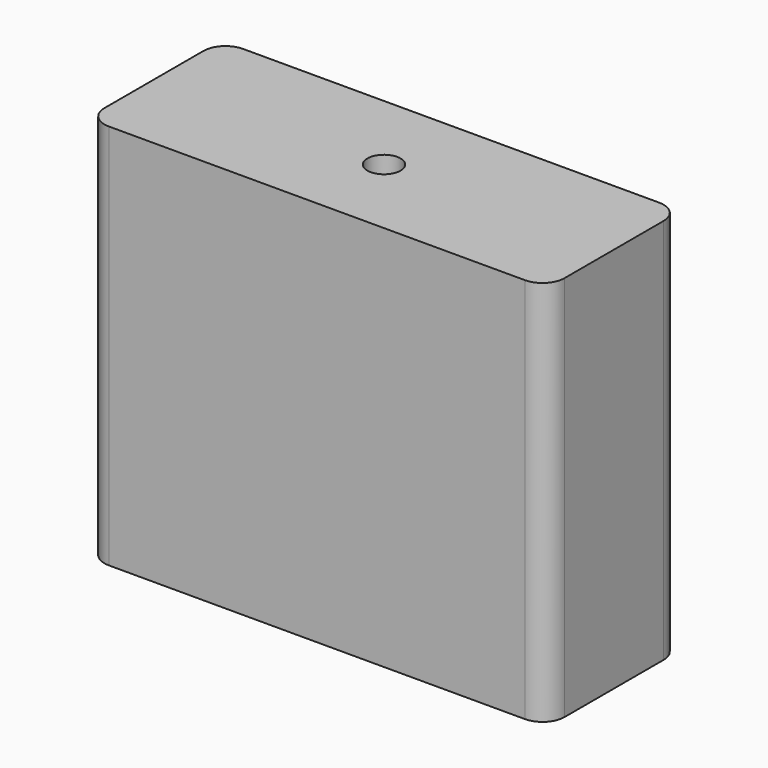
from build123d import *

# Parameters (mm, degrees)
F0_W     = 52.938428
F0_H     = 19.312158
F0_W_2   = 46.482
F0_H_2   = 12.7
F1_DEPTH = 44.45
F2_W     = 46.482
F2_H     = 12.7
F3_DEPTH = 39.116
F4_R     = 1.905
F5_DEPTH = 58.674
F6_R     = 2.54


with BuildPart() as f1:
    # F0 (on Top) → F1 (new body)
    with BuildSketch(Plane.XY):
        Rectangle(F0_W, F0_H)
        Rectangle(F0_W_2, F0_H_2, mode=Mode.SUBTRACT)
        Rectangle(F0_W_2, F0_H_2)
    extrude(amount=F1_DEPTH)

    # F2 (on Top) → F3 (cut)
    with BuildSketch(Plane.XY):
        Rectangle(F2_W, F2_H)
    extrude(amount=F3_DEPTH, mode=Mode.SUBTRACT)

    # F4 (on Top) → F5 (cut)
    with BuildSketch(Plane.XY):
        Circle(F4_R)
    extrude(amount=F5_DEPTH, mode=Mode.SUBTRACT)

    # F6
    f6_edges = [f1.edges().sort_by_distance(p)[0] for p in [
        (-26.469214, 9.656079, 22.225),
        (26.469214, 9.656079, 22.225),
        (-26.469214, -9.656079, 22.225),
        (26.469214, -9.656079, 22.225),
    ]]
    fillet(f6_edges, radius=F6_R)


solid = f1.part
